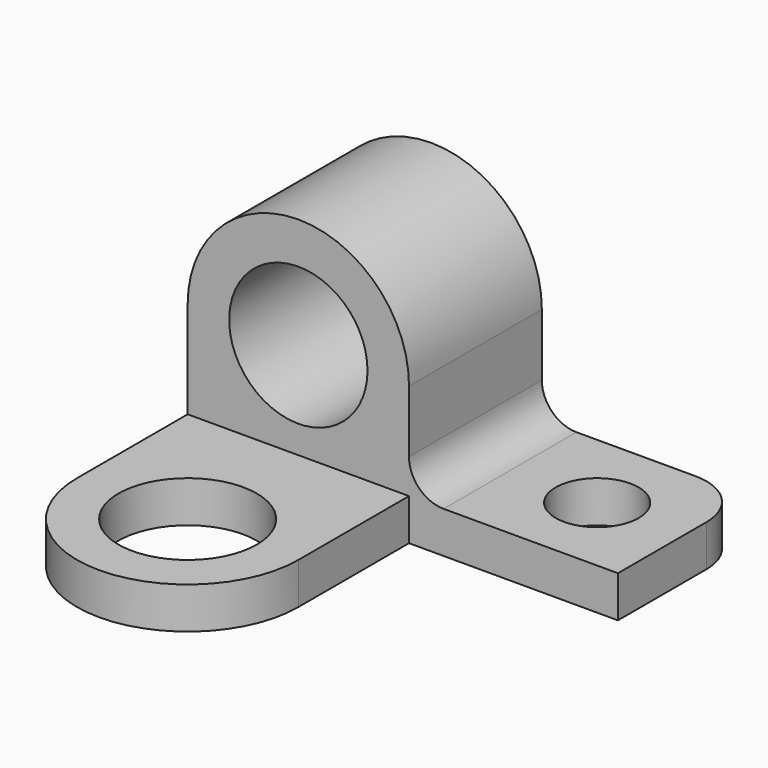
from build123d import *

# Parameters (mm, degrees)
F0_R     = 50
F1_DEPTH = 120
F2_R     = 30
F3_DEPTH = 30
F4_R     = 50
F5_DEPTH = 30


with BuildPart() as f1:
    # F0 (on Front) → F1 (new body)
    with BuildSketch(Plane.XZ):
        with BuildLine():
            Line((0, 100), (0, 0))
            Line((0, 0), (311, 0))
            Line((311, 0), (311, 30))
            Line((311, 30), (185, 30))
            ThreePointArc((185, 30), (167.32233, 37.32233), (160, 55))
            Line((160, 55), (160, 100))
            ThreePointArc((160, 100), (80, 180), (0, 100))
        make_face()
        with Locations((80, 100)):
            Circle(F0_R, mode=Mode.SUBTRACT)
    extrude(amount=F1_DEPTH)

    # F2 (on face) → F3 (cut)
    with BuildSketch(Plane.XY.offset(30)):
        with Locations((248, -60)):
            Circle(F2_R)
        with BuildLine():
            Line((311, 0), (271, 0))
            ThreePointArc((271, 0), (299.284271, -11.715729), (311, -40))
            Line((311, -40), (311, 0))
        make_face()
    extrude(amount=-F3_DEPTH, mode=Mode.SUBTRACT)

    # F4 (on face) → F5 (join)
    with BuildSketch(Plane(origin=(0, 0, 0), x_dir=(1, 0, 0), z_dir=(0, 0, -1))):
        with BuildLine():
            Line((0, 220), (0, 120))
            Line((0, 120), (160, 120))
            Line((160, 120), (160, 220))
            ThreePointArc((160, 220), (80, 300), (0, 220))
        make_face()
        with Locations((80, 220)):
            Circle(F4_R, mode=Mode.SUBTRACT)
    extrude(amount=-F5_DEPTH)


solid = f1.part
